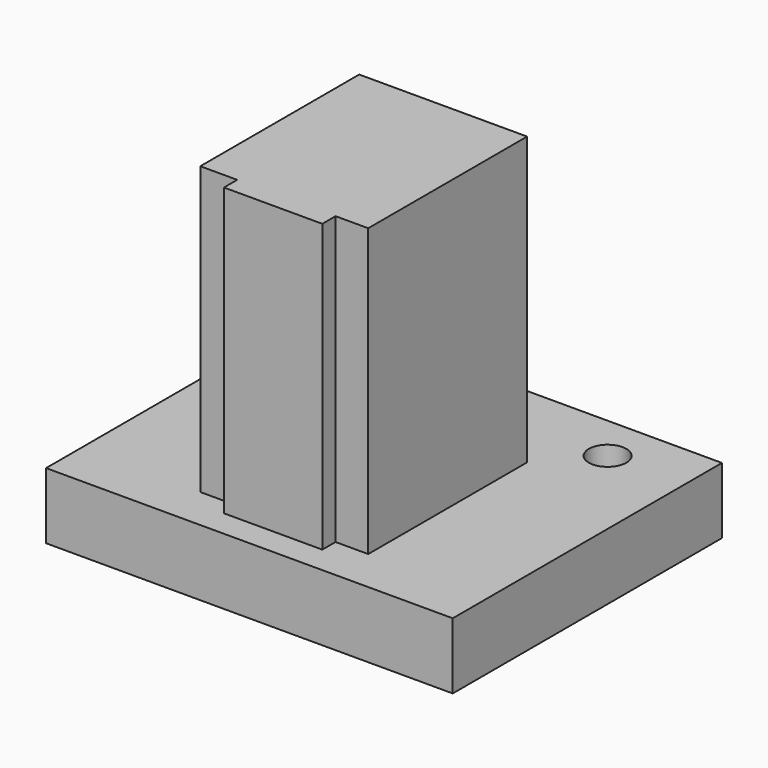
from build123d import *

# Parameters (mm, degrees)
F0_W     = 36.86
F0_H     = 30.5
F1_DEPTH = 6
F2_R     = 1.7
F3_DEPTH = 25
F4_W     = 8.913981
F4_H     = 1.5
F5_DEPTH = 26


with BuildPart() as f1:
    # F0 (on Top) → F1 (new body)
    with BuildSketch(Plane.XY):
        Rectangle(F0_W, F0_H)
    extrude(amount=F1_DEPTH)

    # F2 (on face) → F3 (cut)
    with BuildSketch(Plane.XY.offset(6)):
        with Locations((-11.43, 11.05)):
            Circle(F2_R)
        with Locations((11.43, 11.05)):
            Circle(F2_R)
    extrude(amount=-F3_DEPTH, mode=Mode.SUBTRACT)

    # F4 (on face) → F5 (join)
    with BuildSketch(Plane.XY.offset(6)):
        Polygon((-7.61, 6.7), (-7.61, -11.3), (-4.264409, -11.3), (4.649572, -11.3), (7.61, -11.3), (7.61, 6.7), align=None)
        with Locations((0.192582, -12.05)):
            Rectangle(F4_W, F4_H)
    extrude(amount=F5_DEPTH)


solid = f1.part
